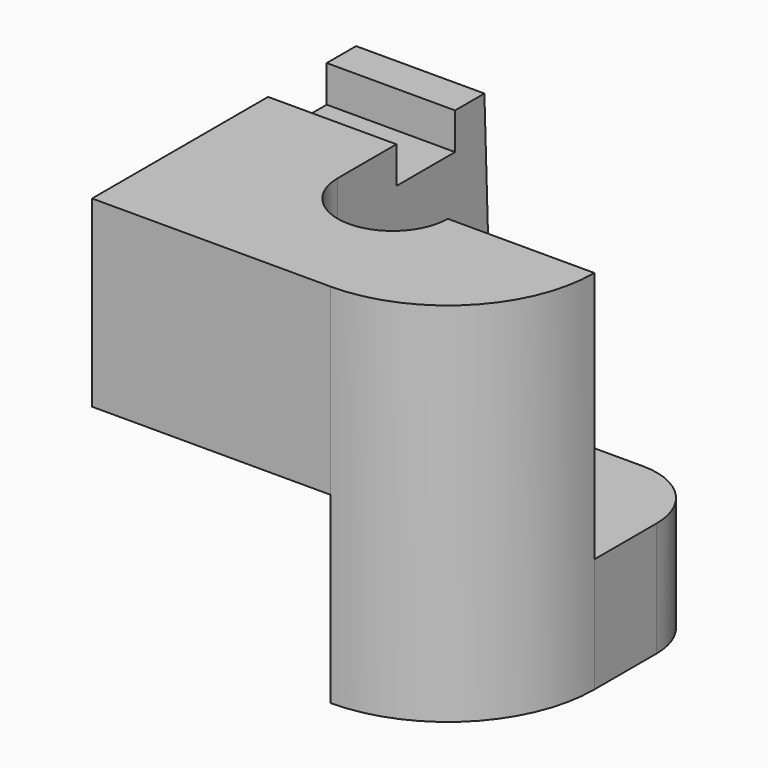
from build123d import *

# Parameters (mm, degrees)
PAD_DEPTH    = 40
PAD003_DEPTH = 28
PAD004_DEPTH = 40
POCKET_DEPTH = 40
PAD005_DEPTH = 25


with BuildPart() as part:
    # Sketch → Pad (new body)
    with BuildSketch(Plane.XY):
        with BuildLine():
            Line((28, 32), (28, 48))
            Line((28, 48), (0, 48))
            Line((0, 48), (0, 0))
            Line((0, 0), (52, 0))
            ThreePointArc((52, 0), (74.627417, 9.372583), (84, 32))
            Line((84, 32), (52, 32))
            ThreePointArc((28, 32), (40, 19.999968), (52, 32))
        make_face()
    extrude(amount=PAD_DEPTH)

    # Sketch003 → Pad003 (join)
    with BuildSketch(Plane(origin=(0, 0, 0), x_dir=(0, -1, 0), z_dir=(-1, 0, 0))):
        Polygon((-48, 0), (-73, 12), (-72, 40), (-64, 40), (-64, 32), (-48, 32), align=None)
    extrude(amount=-PAD003_DEPTH)

    # Pad003 Face5 → Pad004 (add)
    with BuildSketch(Plane(origin=(34.657962, 19.802966, 0), x_dir=(0, -1, 0), z_dir=(0, 0, -1))):
        with BuildLine():
            Line((-28.197034, 6.657962), (-12.197034, 6.657962))
            ThreePointArc((-12.197034, 6.657962), (-0.197002, -5.342038), (-12.197034, -17.342038))
            Line((-12.197034, -17.342038), (-12.197034, -49.342038))
            ThreePointArc((-12.197034, -49.342038), (10.430383, -39.969455), (19.802966, -17.342038))
            Line((19.802966, -17.342038), (19.802966, 34.657962))
            Line((19.802966, 34.657962), (-28.197034, 34.657962))
            Line((-28.197034, 34.657962), (-28.197034, 6.657962))
        make_face()
    extrude(amount=PAD004_DEPTH)

    # Sketch004 (on Face16 of Pad004) → Pocket (cut)
    with BuildSketch(Plane(origin=(0, 0, -40), x_dir=(1, 0, 0), z_dir=(0, 0, -1))):
        with BuildLine():
            Line((52, 0), (0, 0))
            Line((0, 0), (0, -48))
            Line((0, -48), (28, -48))
            Line((28, -48), (28, -31.999968))
            ThreePointArc((52, -32), (40.000016, -19.999968), (28, -31.999968))
            Line((52, -32), (52, 0))
        make_face()
    extrude(amount=-POCKET_DEPTH, mode=Mode.SUBTRACT)

    # Sketch005 (on Face20 of Pocket) → Pad005 (join)
    with BuildSketch(Plane(origin=(0, 0, -40), x_dir=(1, 0, 0), z_dir=(0, 0, -1))):
        with BuildLine():
            Line((52, -32), (84, -32))
            Line((84, -32), (84, -49))
            ThreePointArc((69, -64), (79.606602, -59.606602), (84, -49))
            Line((69, -64), (52, -64))
            Line((52, -64), (52, -32))
        make_face()
    extrude(amount=-PAD005_DEPTH)


solid = part.part
